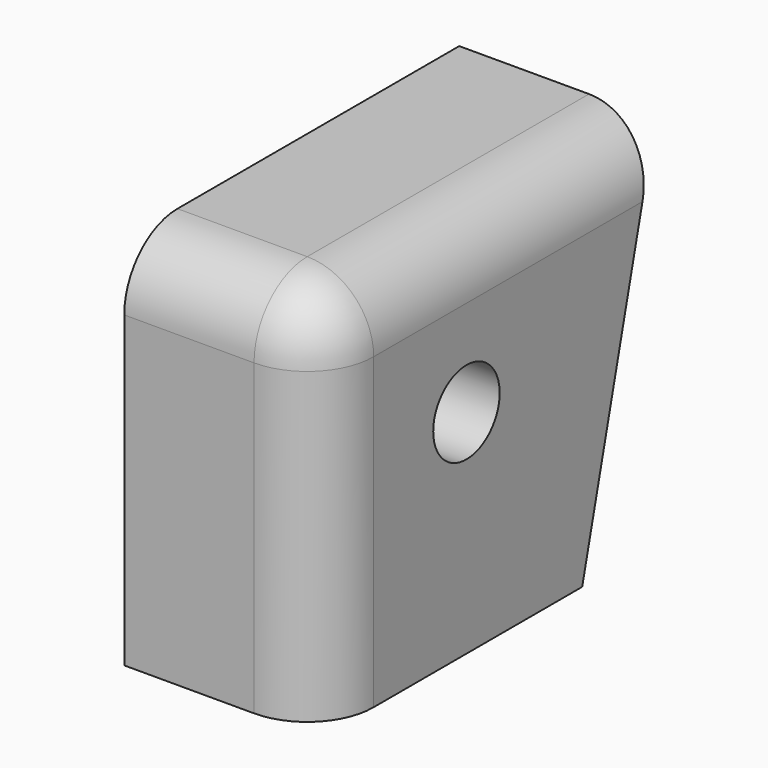
from build123d import *

# Parameters (mm, degrees)
F1_DEPTH = 15
F2_R     = 5.08
F4_D     = 6.35


with BuildPart() as f1:
    # F0 (on Right) → F1 (new body)
    with BuildSketch(Plane.YZ):
        Polygon((10.627066, 24.493142), (-21.372934, 24.493142), (-21.372934, -4.169433), (3.627066, -4.169433), align=None)
    extrude(amount=F1_DEPTH)

    # F2
    f2_edges = [f1.edges().sort_by_distance(p)[0] for p in [
        (15, -21.372934, 10.161854),
        (15, -5.372934, 24.493142),
        (7.5, -21.372934, 24.493142),
    ]]
    fillet(f2_edges, radius=F2_R)

    # F4 (through all)
    with Locations(Plane.YZ.offset(15)):
        with Locations((-7.430566, 12.076859)):
            Hole(F4_D / 2)


solid = f1.part
